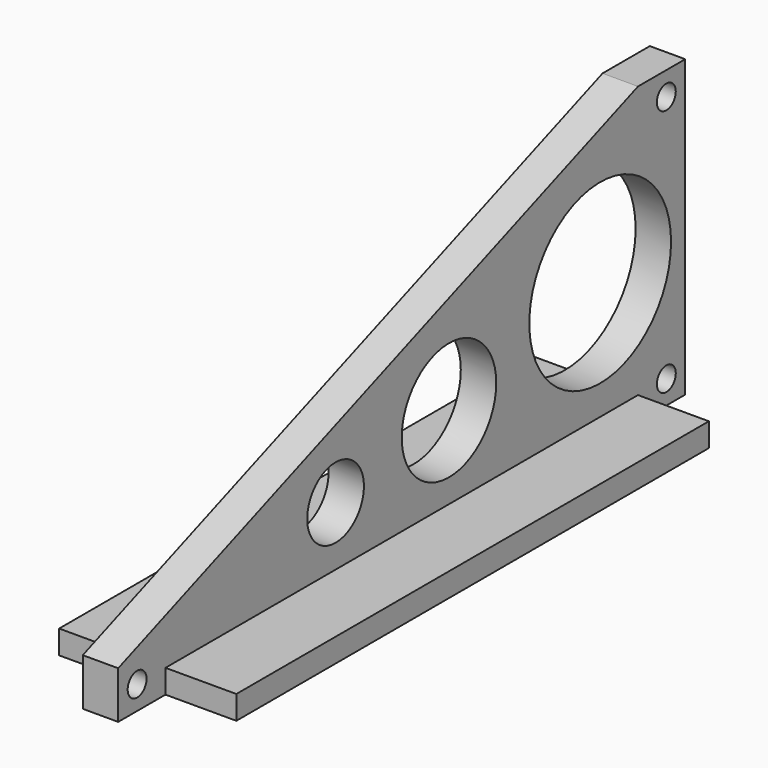
from build123d import *

# Parameters (mm, degrees)
F0_W     = 50
F0_H     = 2
F1_DEPTH = 7.5
F0_R     = 1
F0_R_2   = 3
F0_R_3   = 5
F0_R_4   = 7.5
F2_DEPTH = 1.5


with BuildPart() as f1:
    # F0 (on Right) → F1 (new body, symmetric)
    with BuildSketch(Plane.YZ):
        with Locations((-5, -9.958334)):
            Rectangle(F0_W, F0_H)
    extrude(amount=F1_DEPTH, both=True)

    # F0 (on Right) → F2 (join, symmetric)
    with BuildSketch(Plane.YZ):
        Polygon((25, -10.958334), (25, 14.041666), (20, 14.041666), (-35, -6.958334), (-35, -10.958334), (-30, -10.958334), (-30, -8.958334), (20, -8.958334), (20, -10.958334), align=None)
        with Locations((-33, -8.958334)):
            Circle(F0_R, mode=Mode.SUBTRACT)
        with Locations((-12, -3.958334)):
            Circle(F0_R_2, mode=Mode.SUBTRACT)
        with Locations((23, -8.958334)):
            Circle(F0_R, mode=Mode.SUBTRACT)
        with Locations((0, -1.958334)):
            Circle(F0_R_3, mode=Mode.SUBTRACT)
        with Locations((16, 1.041666)):
            Circle(F0_R_4, mode=Mode.SUBTRACT)
        with Locations((23, 12.041666)):
            Circle(F0_R, mode=Mode.SUBTRACT)
    extrude(amount=F2_DEPTH, both=True)


solid = f1.part
